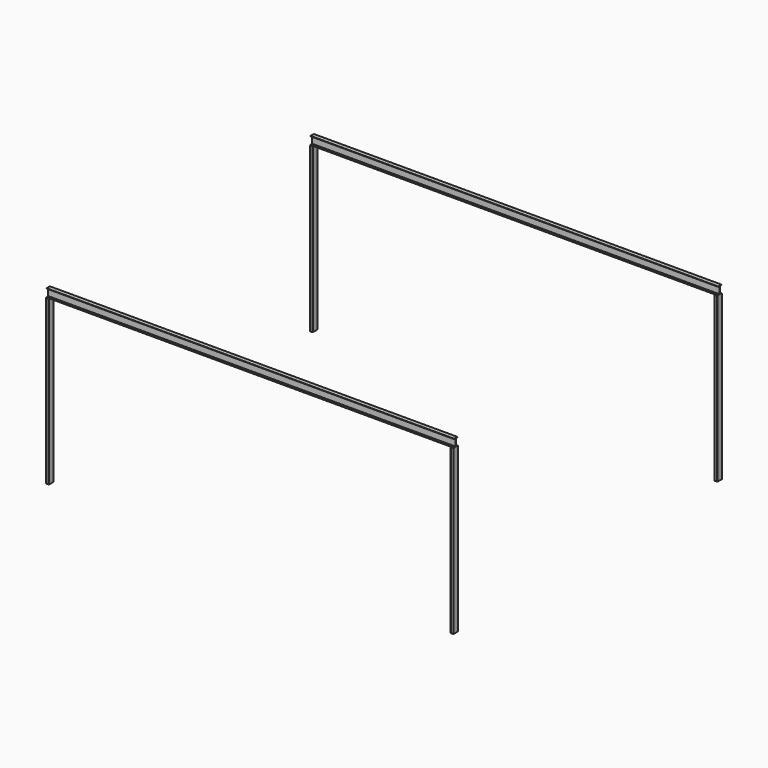
from build123d import *

# Parameters (mm, degrees)
F2_DEPTH = 2800
F4_DEPTH = 6980


with BuildPart() as f2:
    # F1 (on face) → F2 (new body)
    with BuildSketch(Plane.XY):
        with BuildLine():
            Line((-2750.887222, 2611.745315), (-2790.887222, 2611.745315))
            ThreePointArc((-2790.887222, 2611.745315), (-2794.422756, 2610.280849), (-2795.887222, 2606.745315))
            Line((-2795.887222, 2606.745315), (-2795.887222, 2516.745315))
            ThreePointArc((-2795.887222, 2516.745315), (-2794.422756, 2513.209781), (-2790.887222, 2511.745315))
            Line((-2790.887222, 2511.745315), (-2750.887222, 2511.745315))
            ThreePointArc((-2750.887222, 2511.745315), (-2747.351688, 2513.209781), (-2745.887222, 2516.745315))
            Line((-2745.887222, 2516.745315), (-2745.887222, 2606.745315))
            ThreePointArc((-2745.887222, 2606.745315), (-2747.351688, 2610.280849), (-2750.887222, 2611.745315))
        make_face()
        with BuildLine():
            ThreePointArc((-2790.887222, -3038.254685), (-2794.422756, -3039.719151), (-2795.887222, -3043.254685))
            Line((-2795.887222, -3043.254685), (-2795.887222, -3133.254685))
            ThreePointArc((-2795.887222, -3133.254685), (-2794.422756, -3136.790219), (-2790.887222, -3138.254685))
            Line((-2790.887222, -3138.254685), (-2750.887222, -3138.254685))
            ThreePointArc((-2750.887222, -3138.254685), (-2747.351688, -3136.790219), (-2745.887222, -3133.254685))
            Line((-2745.887222, -3133.254685), (-2745.887222, -3043.254685))
            ThreePointArc((-2745.887222, -3043.254685), (-2747.351688, -3039.719151), (-2750.887222, -3038.254685))
            Line((-2750.887222, -3038.254685), (-2790.887222, -3038.254685))
        make_face()
        with BuildLine():
            Line((4179.112778, -3038.254685), (4139.112778, -3038.254685))
            ThreePointArc((4139.112778, -3038.254685), (4135.577244, -3039.719151), (4134.112778, -3043.254685))
            Line((4134.112778, -3043.254685), (4134.112778, -3133.254685))
            ThreePointArc((4134.112778, -3133.254685), (4135.577244, -3136.790219), (4139.112778, -3138.254685))
            Line((4139.112778, -3138.254685), (4179.112778, -3138.254685))
            ThreePointArc((4179.112778, -3138.254685), (4182.648312, -3136.790219), (4184.112778, -3133.254685))
            Line((4184.112778, -3133.254685), (4184.112778, -3043.254685))
            ThreePointArc((4184.112778, -3043.254685), (4182.648312, -3039.719151), (4179.112778, -3038.254685))
        make_face()
        with BuildLine():
            Line((4139.112778, 2511.745315), (4179.112778, 2511.745315))
            ThreePointArc((4179.112778, 2511.745315), (4182.648312, 2513.209781), (4184.112778, 2516.745315))
            Line((4184.112778, 2516.745315), (4184.112778, 2606.745315))
            ThreePointArc((4184.112778, 2606.745315), (4182.648312, 2610.280849), (4179.112778, 2611.745315))
            Line((4179.112778, 2611.745315), (4139.112778, 2611.745315))
            ThreePointArc((4139.112778, 2611.745315), (4135.577244, 2610.280849), (4134.112778, 2606.745315))
            Line((4134.112778, 2606.745315), (4134.112778, 2516.745315))
            ThreePointArc((4134.112778, 2516.745315), (4135.577244, 2513.209781), (4139.112778, 2511.745315))
        make_face()
    extrude(amount=F2_DEPTH)


with BuildPart() as f4:
    # F3 (on face) → F4 (new body, through all)
    with BuildSketch(Plane(origin=(-2795.887222, 0, 0), x_dir=(0, -1, 0), z_dir=(-1, 0, 0))):
        with BuildLine():
            ThreePointArc((3051.754685, 2802), (3052.340471, 2800.585786), (3053.754685, 2800))
            Line((3053.754685, 2800), (3088.254685, 2800))
            Line((3088.254685, 2800), (3122.754685, 2800))
            ThreePointArc((3122.754685, 2800), (3124.168898, 2800.585786), (3124.754685, 2802))
            Line((3124.754685, 2802), (3124.754685, 2804.9))
            ThreePointArc((3124.754685, 2804.9), (3124.168898, 2806.314214), (3122.754685, 2806.9))
            Line((3122.754685, 2806.9), (3092.604685, 2806.9))
            ThreePointArc((3092.604685, 2806.9), (3091.190471, 2807.485786), (3090.604685, 2808.9))
            Line((3090.604685, 2808.9), (3090.604685, 2931.1))
            ThreePointArc((3090.604685, 2931.1), (3091.190471, 2932.514214), (3092.604685, 2933.1))
            Line((3092.604685, 2933.1), (3122.754685, 2933.1))
            ThreePointArc((3122.754685, 2933.1), (3124.168898, 2933.685786), (3124.754685, 2935.1))
            Line((3124.754685, 2935.1), (3124.754685, 2938))
            ThreePointArc((3124.754685, 2938), (3124.168898, 2939.414214), (3122.754685, 2940))
            Line((3122.754685, 2940), (3088.254685, 2940))
            Line((3088.254685, 2940), (3053.754685, 2940))
            ThreePointArc((3053.754685, 2940), (3052.340471, 2939.414214), (3051.754685, 2938))
            Line((3051.754685, 2938), (3051.754685, 2935.1))
            ThreePointArc((3051.754685, 2935.1), (3052.340471, 2933.685786), (3053.754685, 2933.1))
            Line((3053.754685, 2933.1), (3083.904685, 2933.1))
            ThreePointArc((3083.904685, 2933.1), (3085.318898, 2932.514214), (3085.904685, 2931.1))
            Line((3085.904685, 2931.1), (3085.904685, 2808.9))
            ThreePointArc((3085.904685, 2808.9), (3085.318898, 2807.485786), (3083.904685, 2806.9))
            Line((3083.904685, 2806.9), (3053.754685, 2806.9))
            ThreePointArc((3053.754685, 2806.9), (3052.340471, 2806.314214), (3051.754685, 2804.9))
            Line((3051.754685, 2804.9), (3051.754685, 2802))
        make_face()
    extrude(amount=-F4_DEPTH)


with BuildPart() as f6_1:
    # F6: instance of F4
    add(f4.part.mirror(Plane(origin=(-2770.887222, -263.254685, 1400), x_dir=(1, 0, 0), z_dir=(0, -1, 0))))


solid = Compound([f2.part, f4.part, f6_1.part])
